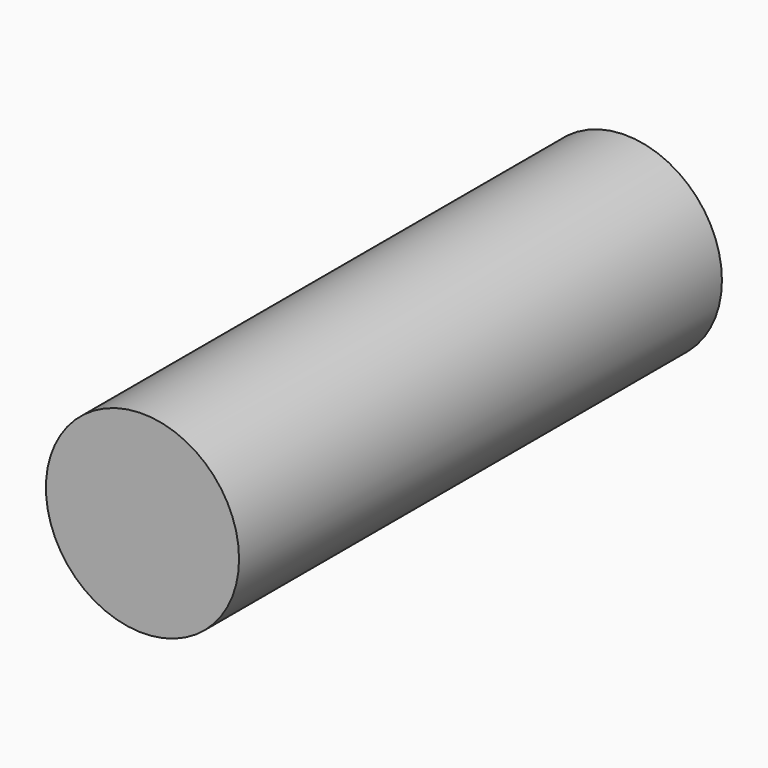
from build123d import *

# Parameters (mm, degrees)
F0_R     = 4
F1_DEPTH = 25
F3_DEPTH = 8


with BuildPart() as f1:
    # F0 (on Front) → F1 (new body)
    with BuildSketch(Plane.XZ):
        Circle(F0_R)
    extrude(amount=F1_DEPTH)

    # F2 (on face) → F3 (cut)
    with BuildSketch(Plane(origin=(0, 0, 0), x_dir=(-1, 0, 0), z_dir=(0, 1, 0))):
        with BuildLine():
            Line((1.118034, 1), (-1.118034, 1))
            ThreePointArc((-1.118034, 1), (0, -1.5), (1.118034, 1))
        make_face()
    extrude(amount=-F3_DEPTH, mode=Mode.SUBTRACT)


solid = f1.part
